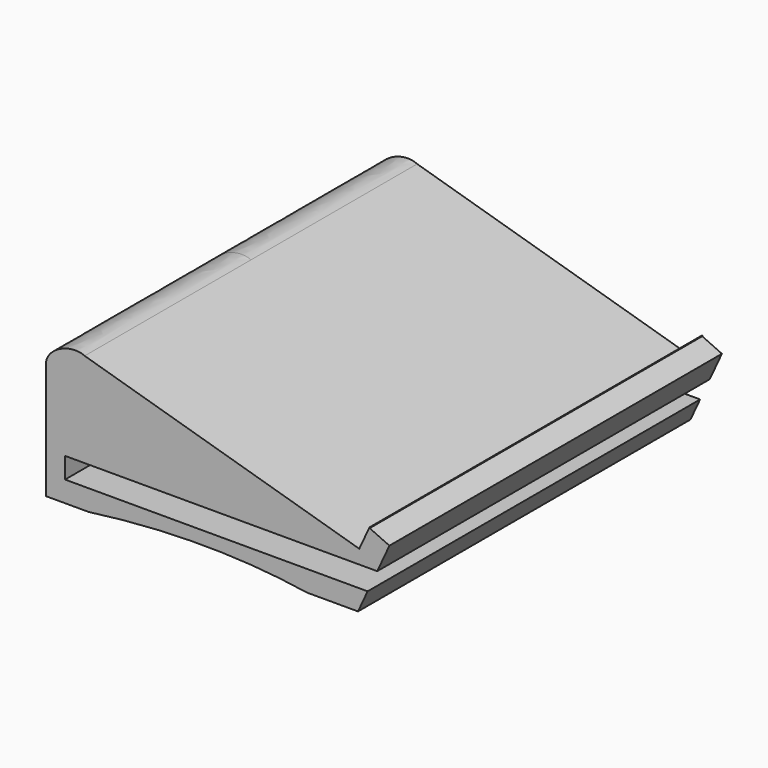
from build123d import *

# Parameters (mm, degrees)
F0_W     = 16.392636
F0_H     = 18
F1_DEPTH = 179.45


with BuildPart() as f1:
    # F0 (on Front) → F1 (new body, symmetric)
    with BuildSketch(Plane.XZ):
        with BuildLine():
            Line((-125.372112, 36), (144.191556, 36))
            Line((144.191556, 36), (154.716455, 58.825539))
            Line((154.716455, 58.825539), (137.690631, 66.589023))
            Line((137.690631, 66.589023), (137.873941, 66.991033))
            Line((137.873941, 66.991033), (137.500362, 67.161379))
            Line((137.500362, 67.161379), (128.665014, 48))
            Line((128.665014, 48), (-108.450002, 117.533296))
            add(Edge.make_bspline(
                [(-141.764748, 102.030654), (-140.029642, 114.253703), (-119.663181, 122.909447), (-108.450002, 117.533296)],
                knots=[0, 0, 0, 0, 36.745125, 36.745125, 36.745125, 36.745125], degree=3))
            Line((-141.764748, 102.030654), (-141.764748, 36))
            Line((-141.764748, 36), (-125.372112, 36))
        make_face()
        with BuildLine():
            add(Edge.make_bspline(
                [(-105.076713, 0), (-42.760202, 8.42147), (21.213201, 9.788831), (83.456889, 0)],
                knots=[0, 0, 0, 0, 188.533601, 188.533601, 188.533601, 188.533601], degree=3))
            Line((83.456889, 0), (127.591888, 0))
            Line((127.591888, 0), (135.891722, 18))
            Line((135.891722, 18), (-125.372112, 18))
            Line((-125.372112, 18), (-141.764748, 18))
            Line((-141.764748, 18), (-141.764748, 0))
            Line((-141.764748, 0), (-105.076713, 0))
        make_face()
        with Locations((-133.56843, 27)):
            Rectangle(F0_W, F0_H)
    extrude(amount=F1_DEPTH, both=True)


solid = f1.part
